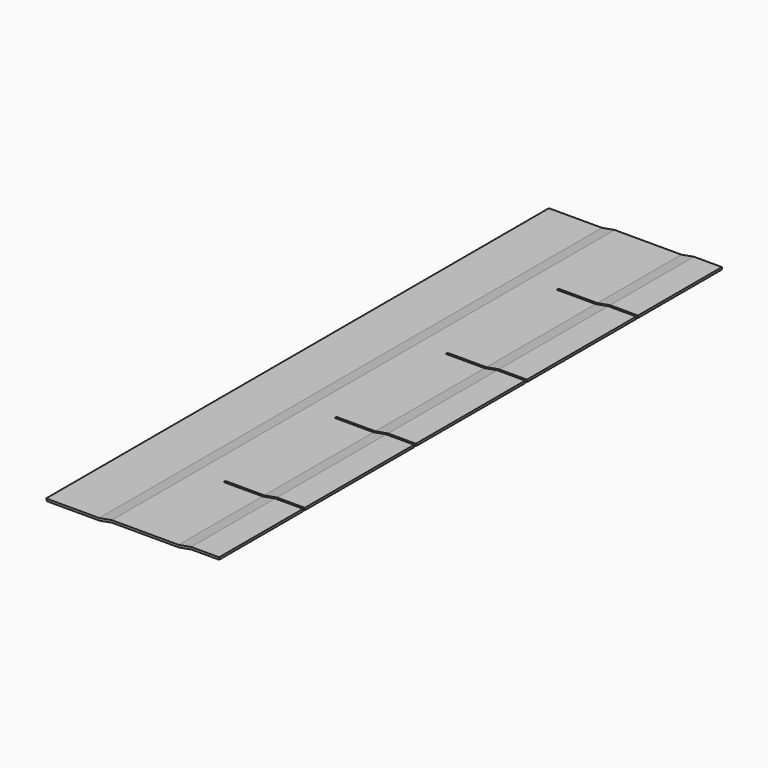
from build123d import *

# Parameters (mm, degrees)
F1_DEPTH      = 1132
F2_W          = 143
F2_H          = 4
F3_DEPTH      = 8.001
F3_DEPTH_BACK = 4.001


with BuildPart() as f1:
    # F0 (on Front) → F1 (new body)
    with BuildSketch(Plane.XZ):
        Polygon((95.6217723169, 0), (0, 0), (1.6568542495, -4), (95.971726971, -4), (118.6568542495, 0), (238.971726971, 0), (261.6568542495, 4), (311.6568542495, 4), (311.6568542495, 8), (261.3068995954, 8), (238.6217723169, 4), (118.3068995954, 4), align=None)
    extrude(amount=-F1_DEPTH)

    # F2 (on face) → F3 (cut, two sides)
    with BuildSketch(Plane.XY.offset(4)) as f3_sk:
        with Locations((240.1568542495, 191)):
            Rectangle(F2_W, F2_H)
        with Locations((240.1568542495, 441)):
            Rectangle(F2_W, F2_H)
        with Locations((240.1568542495, 691)):
            Rectangle(F2_W, F2_H)
        with Locations((240.1568542495, 941)):
            Rectangle(F2_W, F2_H)
    extrude(amount=-F3_DEPTH, mode=Mode.SUBTRACT)
    extrude(f3_sk.sketch, amount=F3_DEPTH_BACK, mode=Mode.SUBTRACT)


solid = f1.part
